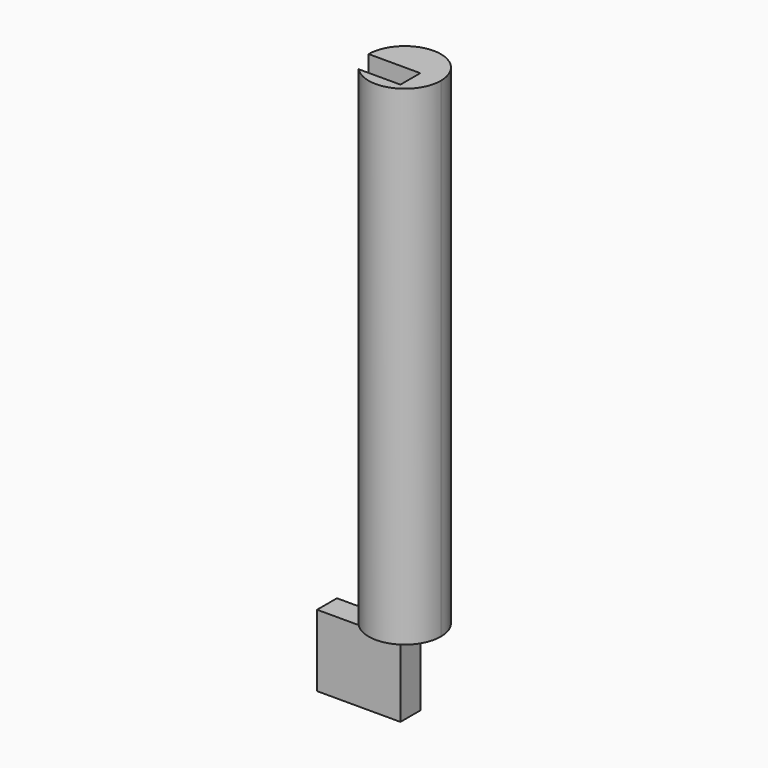
from build123d import *

# Parameters (mm, degrees)
F0_W     = 85.148022
F0_H     = 73.238932
F1_DEPTH = 25.4
F3_DEPTH = 500


with BuildPart() as f1:
    # F0 (on Front) → F1 (new body)
    with BuildSketch(Plane.XZ):
        with Locations((42.574011, 36.619466)):
            Rectangle(F0_W, F0_H)
    extrude(amount=F1_DEPTH)


with BuildPart() as f3:
    # F2 (on face) → F3 (new body)
    with BuildSketch(Plane.XY.offset(73.238932)):
        with BuildLine():
            ThreePointArc((42.514496, -25.4), (82.948831, -34.268386), (106.170833, 0))
            ThreePointArc((106.170833, 0), (69.275141, 36.895692), (32.379449, 0))
            Line((32.379449, 0), (85.148022, 0))
            Line((85.148022, 0), (85.148022, -25.4))
            Line((85.148022, -25.4), (42.514496, -25.4))
        make_face()
    extrude(amount=F3_DEPTH)


solid = Compound([f1.part, f3.part])
